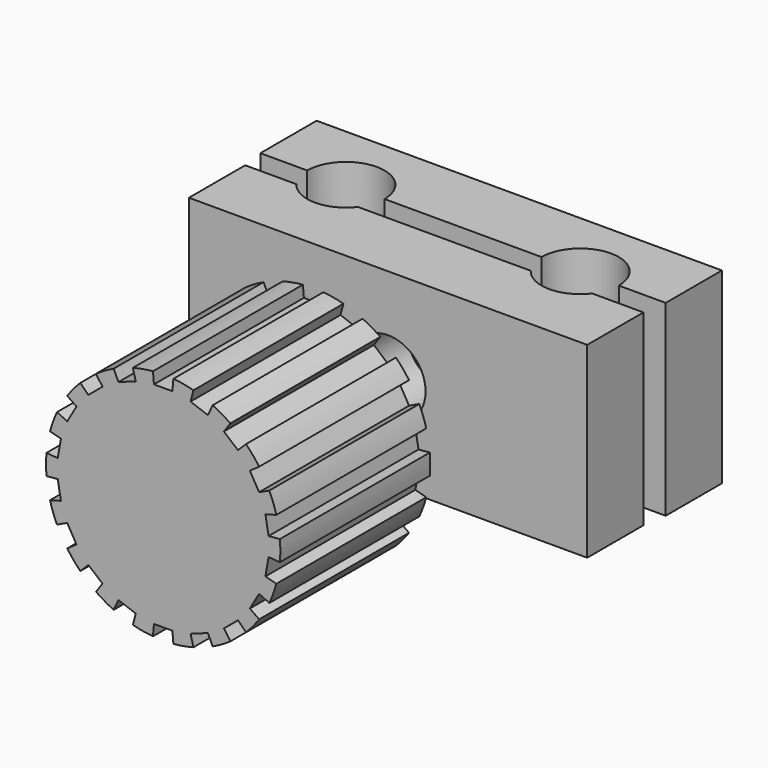
from build123d import *

# Parameters (mm, degrees)
PAD_DEPTH          = 4
SKETCH001_R        = 1.6
POCKET_DEPTH       = 5
POCKET001_DEPTH    = 2.6
PAD001_DEPTH       = 4
SKETCH004_R        = 1.6
POCKET002_DEPTH    = 5
POCKET003_DEPTH    = 5
POLARPATTERN_COUNT = 18
PAD002_DEPTH       = 1.5


with BuildPart() as body:
    # Sketch → Pad (new body, symmetric)
    with BuildSketch(Plane.XY):
        with BuildLine():
            ThreePointArc((-3.35, 0), (-5, 1.65), (-6.65, 0))
            Line((-8.65, 0), (-6.65, 0))
            Line((-8.65, 3), (-8.65, 0))
            Line((-4, 3), (-8.65, 3))
            Line((4, 3), (-4, 3))
            Line((8.65, 3), (4, 3))
            Line((8.65, 0), (8.65, 3))
            Line((6.65, 0), (8.65, 0))
            ThreePointArc((6.65, 0), (5, 1.65), (3.35, 0))
            Line((-3.35, 0), (3.35, 0))
        make_face()
    extrude(amount=PAD_DEPTH, both=True)

    # Sketch001 → Pocket (cut)
    with BuildSketch(Plane.XZ):
        Circle(SKETCH001_R)
    extrude(amount=-POCKET_DEPTH, mode=Mode.SUBTRACT)

    # Sketch002 → Pocket001 (cut)
    with BuildSketch(Plane.XZ.offset(-2)):
        Polygon((2.8, -1.616581), (2.8, 1.616581), (0, 3.233162), (-2.8, 1.616581), (-2.8, -1.616581), (0, -3.233162), align=None)
    extrude(amount=-POCKET001_DEPTH, mode=Mode.SUBTRACT)


with BuildPart() as body001:
    # Sketch003 → Pad001 (new body, symmetric)
    with BuildSketch(Plane.XY):
        with BuildLine():
            ThreePointArc((-6.313163, -1), (-5, -1.650575), (-3.686837, -1))
            Line((-3.686837, -1), (3.686837, -1))
            ThreePointArc((3.686837, -1), (5, -1.650575), (6.313163, -1))
            Line((6.313163, -1), (8.5, -1))
            Line((8.5, -1), (8.5, -4))
            Line((8.5, -4), (-8.5, -4))
            Line((-8.5, -4), (-8.5, -1))
            Line((-8.5, -1), (-6.313163, -1))
        make_face()
    extrude(amount=PAD001_DEPTH, both=True)

    # Sketch004 → Pocket002 (cut)
    with BuildSketch(Plane.XZ):
        Circle(SKETCH004_R)
    extrude(amount=POCKET002_DEPTH, mode=Mode.SUBTRACT)


with BuildPart() as body002:
    # Sketch005 → Revolution (revolve)
    with BuildSketch(Plane.YZ):
        Polygon((0, 0), (0, 2.75), (3, 2.75), (3, 5), (-5, 5), (-5, 0), align=None)
    revolve(axis=Axis((0, 0, 0), (0, 1, 0)))

    # Sketch006 → Pocket003 (cut, symmetric)
    with BuildSketch(Plane.XZ):
        Polygon((-0.393699, -4.5), (0.393699, -4.5), (0.437443, -5), (-0.437443, -5), align=None)
    pocket003 = extrude(amount=POCKET003_DEPTH, both=True, mode=Mode.SUBTRACT)

    # PolarPattern: Pocket003 ×18 about axis
    polarpattern_axis = Axis((0, 0, 0), (0, -1, 0))
    for i in range(1, POLARPATTERN_COUNT):
        add(pocket003.rotate(polarpattern_axis, i * 360 / POLARPATTERN_COUNT), mode=Mode.SUBTRACT)

    # Sketch007 → Pad002 (join)
    with BuildSketch(Plane.XZ):
        Polygon((0, -1.443376), (1.25, -0.721688), (1.25, 0.721688), (0, 1.443376), (-1.25, 0.721688), (-1.25, -0.721688), align=None)
    extrude(amount=-PAD002_DEPTH)


with BuildPart() as body002_1:
    # Body002 placement: moved
    add(body002.part.moved(Location((0, -11, 0))))


solid = Compound([body.part, body001.part, body002_1.part])
